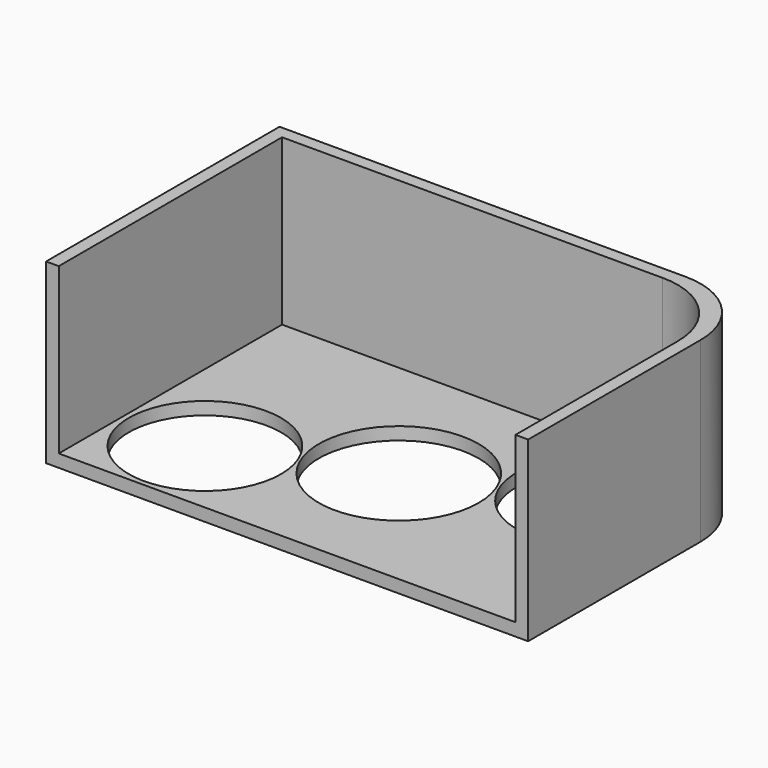
from build123d import *

# Parameters (mm, degrees)
F0_W     = 48.26
F0_H     = 30.48
F0_W_2   = 45.72
F0_H_2   = 27.94
F1_DEPTH = 17.78
F2_DEPTH = 1.27
F3_R     = 7.62
F5_W     = 48.26
F5_H     = 17.78
F6_DEPTH = 1.27
F4_R     = 8.001
F4_R_2   = 7.62
F7_DEPTH = 12.1666


with BuildPart() as f1:
    # F0 (on Top) → F1 (new body)
    with BuildSketch(Plane.XY):
        with Locations((-40.818777, 0.441459)):
            Rectangle(F0_W, F0_H)
        with Locations((-40.818777, 0.441459)):
            Rectangle(F0_W_2, F0_H_2, mode=Mode.SUBTRACT)
    extrude(amount=F1_DEPTH)

    # F0 (on Top) → F2 (join)
    with BuildSketch(Plane.XY):
        with Locations((-40.818777, 0.441459)):
            Rectangle(F0_W_2, F0_H_2)
    extrude(amount=F2_DEPTH)

    # F3
    f3_edges = [f1.edges().sort_by_distance(p)[0] for p in [
        (-16.688777, 15.681459, 8.89),
        (-17.958777, 14.411459, 9.525),
    ]]
    fillet(f3_edges, radius=F3_R)

    # F5 (on face) → F6 (cut)
    with BuildSketch(Plane.XZ.offset(14.798541)):
        with Locations((-40.818777, 8.89)):
            Rectangle(F5_W, F5_H)
    extrude(amount=-F6_DEPTH, mode=Mode.SUBTRACT)

    # F4 (on face) → F7 (cut)
    with BuildSketch(Plane.XY.offset(1.27)):
        with Locations((-40.818777, 0.441459)):
            Circle(F4_R)
        with Locations((-26.086777, 6.283459)):
            Circle(F4_R_2)
        with Locations((-55.550777, -5.400541)):
            Circle(F4_R_2)
    extrude(amount=-F7_DEPTH, mode=Mode.SUBTRACT)


solid = f1.part
